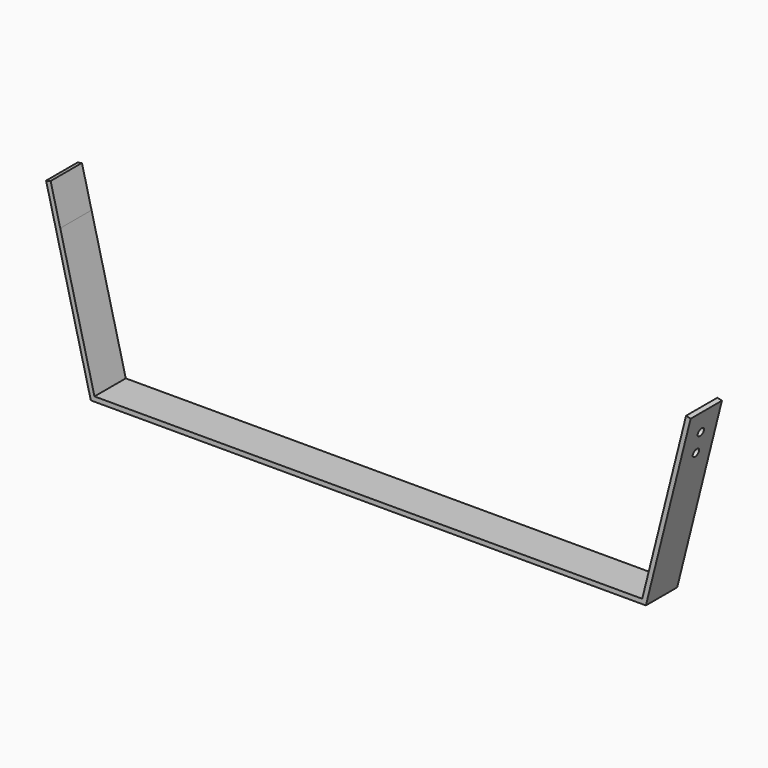
from build123d import *

# Parameters (mm, degrees)
F1_DEPTH = 50
F2_R     = 5
F3_DEPTH = 149


with BuildPart() as f1:
    # F0 (on Front) → F1 (new body)
    with BuildSketch(Plane.XZ):
        Polygon((-142.267644, -59.518882), (-364.846691, -59.518882), (-408.601433, 115.500087), (-420.879421, 164.61204), (-426.700276, 163.156827), (-369.531349, -65.518882), (-142.267644, -65.518882), align=None)
        Polygon((335.153309, -59.518882), (-142.267644, -59.518882), (-142.267644, -65.518882), (339.837968, -65.518882), (397.006895, 163.156827), (391.18604, 164.61204), (378.908052, 115.500087), align=None)
    extrude(amount=F1_DEPTH)

    # F2 (on face) → F3 (cut)
    with BuildSketch(Plane(origin=(335.263706, 0, -83.815927), x_dir=(0, 1, 0), z_dir=(0.970143, 0, -0.242536))):
        with Locations((-25, 226.212755)):
            Circle(F2_R)
        with Locations((-25, 200.103387)):
            Circle(F2_R)
    extrude(amount=-F3_DEPTH, mode=Mode.SUBTRACT)


solid = f1.part
